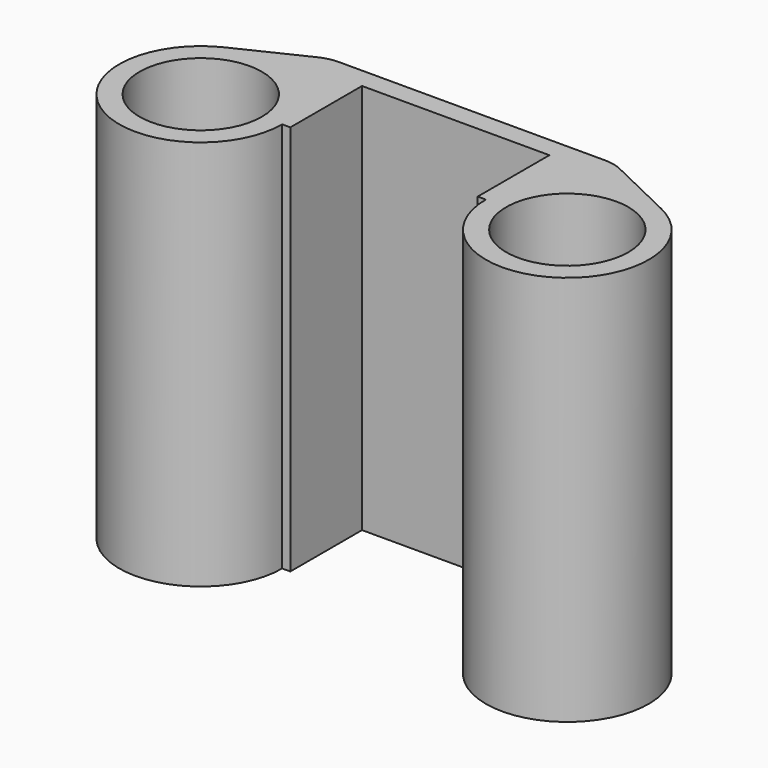
from build123d import *

# Parameters (mm, degrees)
F0_R     = 7.5
F1_DEPTH = 24
F2_R     = 5


with BuildPart() as f1:
    # F0 (on Top) → F1 (new body, symmetric)
    with BuildSketch(Plane.XY):
        with BuildLine():
            Line((-17.5, 13.5), (-26.833323, 9.012342))
            ThreePointArc((-26.833323, 9.012342), (-27.822911, -8.465614), (-12.5, 0))
            Line((-12.5, 0), (-11.5, 0))
            Line((-11.5, 0), (-11.5, 11))
            Line((-11.5, 11), (11.5, 11))
            Line((11.5, 11), (11.5, 0))
            Line((11.5, 0), (12.5, 0))
            ThreePointArc((12.5, 0), (27.822911, -8.465614), (26.833323, 9.012342))
            Line((26.833323, 9.012342), (17.5, 13.5))
            Line((17.5, 13.5), (-17.5, 13.5))
        make_face()
        with Locations((-22.5, 0)):
            Circle(F0_R, mode=Mode.SUBTRACT)
        with Locations((22.5, 0)):
            Circle(F0_R, mode=Mode.SUBTRACT)
    extrude(amount=F1_DEPTH, both=True)

    # F2
    f2_edges = [f1.edges().sort_by_distance(p)[0] for p in [
        (17.5, 13.5, 0),
        (-17.5, 13.5, 0),
    ]]
    fillet(f2_edges, radius=F2_R)


solid = f1.part
